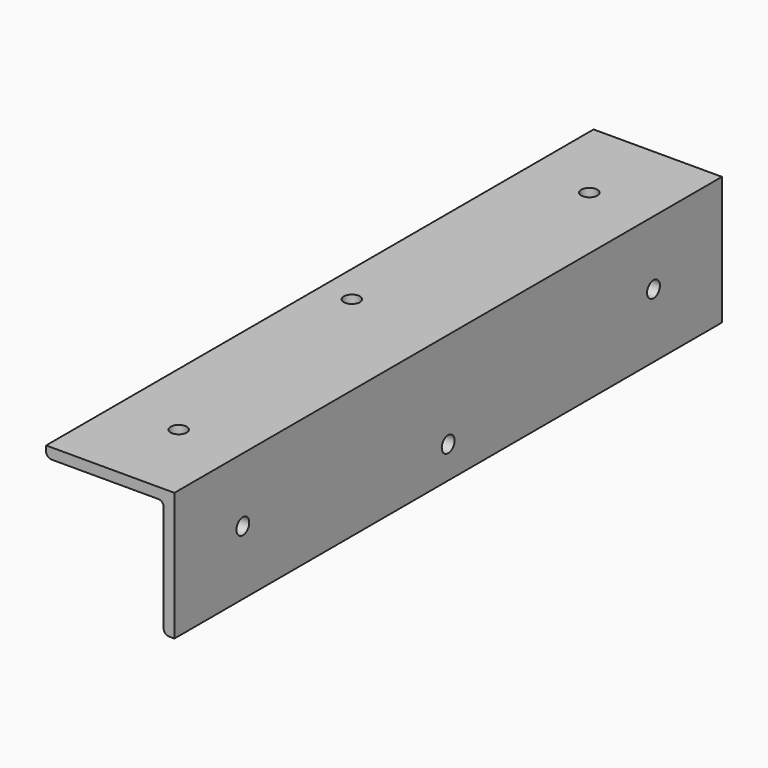
from build123d import *

# Parameters (mm, degrees)
F1_DEPTH = 203.2
F3_D     = 4.7625
F5_D     = 4.7625


with BuildPart() as f1:
    # F0 (on Front) → F1 (new body)
    with BuildSketch(Plane.XZ):
        with BuildLine():
            Line((0, -38.1), (0, 0))
            Line((0, 0), (-38.1, 0))
            Line((-38.1, 0), (-38.1, -1.5875))
            ThreePointArc((-38.1, -1.5875), (-37.635032, -2.710032), (-36.5125, -3.175))
            Line((-36.5125, -3.175), (-4.7625, -3.175))
            ThreePointArc((-4.7625, -3.175), (-3.639968, -3.639968), (-3.175, -4.7625))
            Line((-3.175, -4.7625), (-3.175, -36.5125))
            ThreePointArc((-3.175, -36.5125), (-2.710032, -37.635032), (-1.5875, -38.1))
            Line((-1.5875, -38.1), (0, -38.1))
        make_face()
    extrude(amount=F1_DEPTH)

    # F3 (through all)
    with Locations(Plane.XY):
        with Locations((-19.05, -177.8), (-28.575, -101.6), (-19.05, -25.4)):
            Hole(F3_D / 2)

    # F5 (through all)
    with Locations(Plane.YZ):
        with Locations((-25.4, -19.05), (-101.6, -28.575), (-177.8, -19.05)):
            Hole(F5_D / 2)


solid = f1.part
